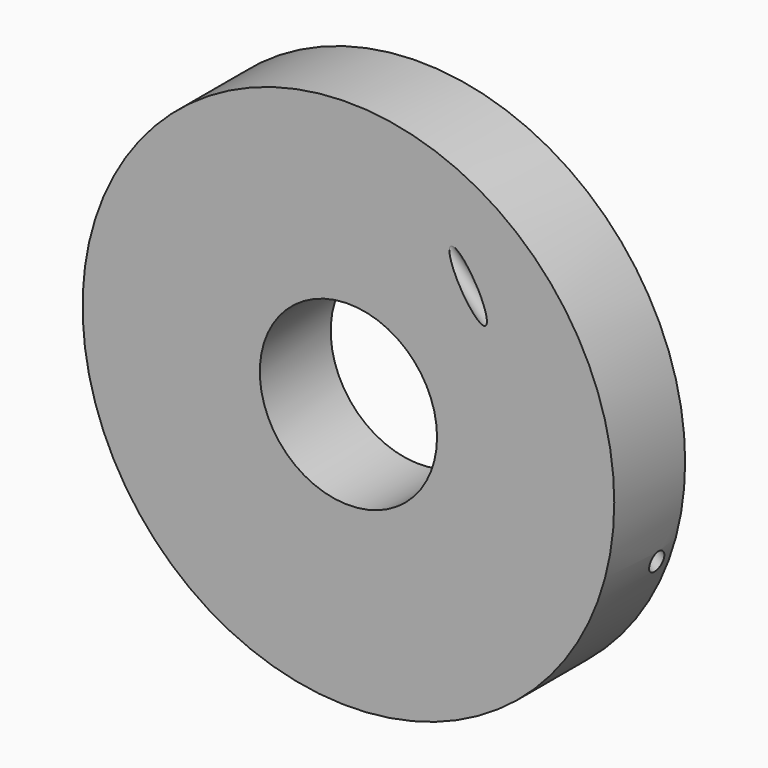
from build123d import *

# Parameters (mm, degrees)
F0_R          = 38.1
F1_DEPTH      = 6.35
F2_R          = 12.7
F3_DEPTH      = 25.4
F8_R          = 1.27
F9_DEPTH      = 51.9166590996
F9_DEPTH_BACK = 51.9166590996


with BuildPart() as f1:
    # F0 (on Front) → F1 (new body, symmetric)
    with BuildSketch(Plane.XZ):
        Circle(F0_R)
    extrude(amount=F1_DEPTH, both=True)

    # F2 (on face) → F3 (cut)
    with BuildSketch(Plane.XZ.offset(6.35)):
        Circle(F2_R)
    extrude(amount=-F3_DEPTH, mode=Mode.SUBTRACT)

    # F8 (on face) → F9 (cut, two sides)
    with BuildSketch(Plane(origin=(0, 0, 0), x_dir=(0.8756408079, -0.1427525977, 0.4613836487), z_dir=(-0.4829629131, -0.2588190451, 0.8365163037))) as f9_sk:
        with Locations((25.4, 0)):
            Circle(F8_R)
    extrude(amount=-F9_DEPTH, mode=Mode.SUBTRACT)
    extrude(f9_sk.sketch, amount=F9_DEPTH_BACK, mode=Mode.SUBTRACT)


solid = f1.part
